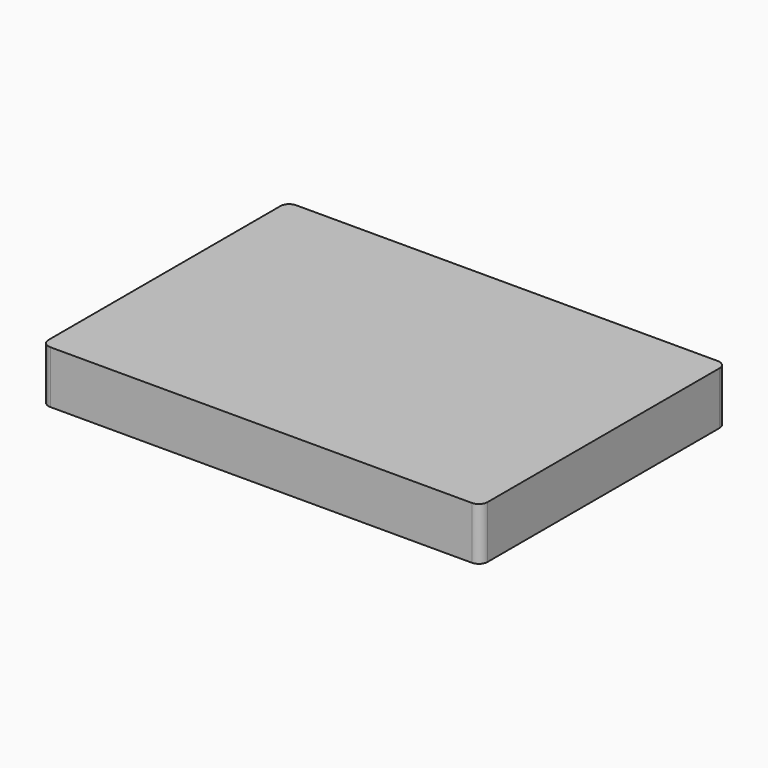
from build123d import *

# Parameters (mm, degrees)
F1_DEPTH = 60
F2_W     = 480.000014
F2_H     = 330.000014
F3_DEPTH = 55


with BuildPart() as f1:
    # F0 (on Top) → F1 (new body)
    with BuildSketch(Plane.XY):
        with BuildLine():
            ThreePointArc((250, 165), (247.071068, 172.071068), (240, 175))
            Line((240, 175), (-240, 175))
            ThreePointArc((-240, 175), (-247.071068, 172.071068), (-250, 165))
            Line((-250, 165), (-250, -165))
            ThreePointArc((-250, -165), (-247.071068, -172.071068), (-240, -175))
            Line((-240, -175), (240, -175))
            ThreePointArc((240, -175), (247.071068, -172.071068), (250, -165))
            Line((250, -165), (250, 165))
        make_face()
    extrude(amount=F1_DEPTH)

    # F2 (on face) → F3 (cut)
    with BuildSketch(Plane.XY):
        Rectangle(F2_W, F2_H)
    extrude(amount=F3_DEPTH, mode=Mode.SUBTRACT)


solid = f1.part
